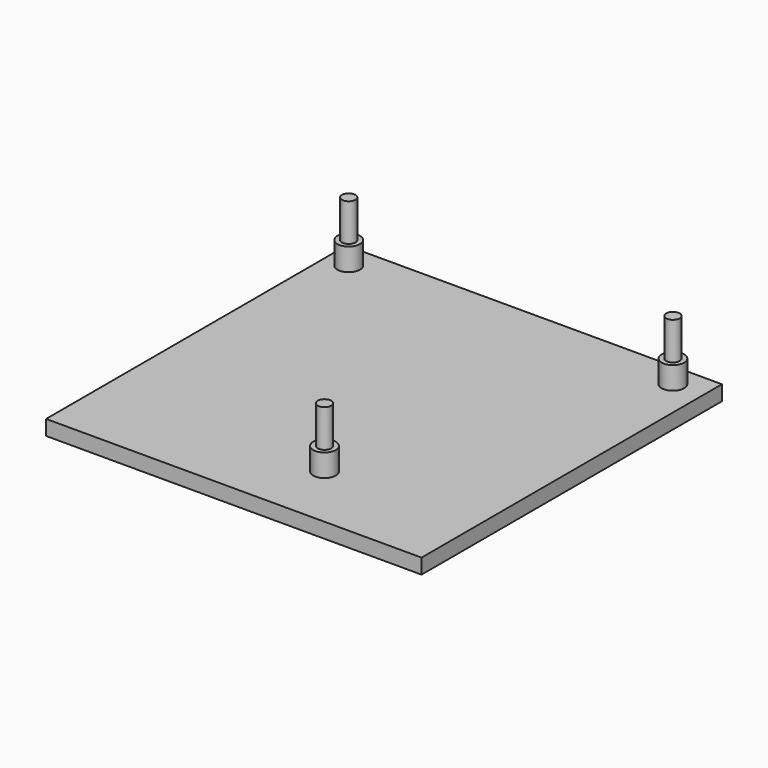
from build123d import *

# Parameters (mm, degrees)
F0_W     = 50
F0_H     = 50
F0_R     = 1.5
F1_DEPTH = 2
F0_R_2   = 0.9
F2_DEPTH = 5
F3_DEPTH = 10


with BuildPart() as f1:
    # F0 (on Top) → F1 (new body)
    with BuildSketch(Plane.XY):
        Rectangle(F0_W, F0_H)
        with Locations((5, -16.156757)):
            Circle(F0_R, mode=Mode.SUBTRACT)
        with Locations((-22, 21.620819)):
            Circle(F0_R, mode=Mode.SUBTRACT)
        with Locations((21, 21.843243)):
            Circle(F0_R, mode=Mode.SUBTRACT)
    extrude(amount=F1_DEPTH)

    # F0 (on Top) → F2 (join)
    with BuildSketch(Plane.XY):
        with Locations((-22, 21.620819)):
            Circle(F0_R)
        with Locations((-22, 21.620819)):
            Circle(F0_R_2, mode=Mode.SUBTRACT)
        with Locations((21, 21.843243)):
            Circle(F0_R)
        with Locations((21, 21.843243)):
            Circle(F0_R_2, mode=Mode.SUBTRACT)
        with Locations((5, -16.156757)):
            Circle(F0_R)
        with Locations((5, -16.156757)):
            Circle(F0_R_2, mode=Mode.SUBTRACT)
    extrude(amount=F2_DEPTH)

    # F0 (on Top) → F3 (join)
    with BuildSketch(Plane.XY):
        with Locations((-22, 21.620819)):
            Circle(F0_R_2)
        with Locations((21, 21.843243)):
            Circle(F0_R_2)
        with Locations((5, -16.156757)):
            Circle(F0_R_2)
    extrude(amount=F3_DEPTH)


solid = f1.part
